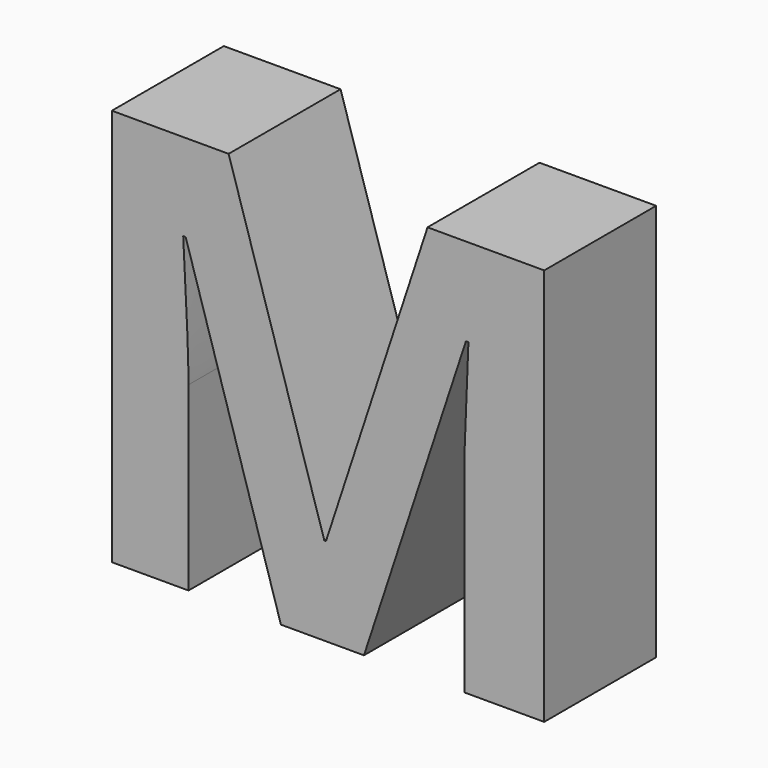
from build123d import *

# Parameters (mm, degrees)
F1_DEPTH = 12.7


with BuildPart() as f1:
    # F0 (on Front) → F1 (new body)
    with BuildSketch(Plane.XZ):
        with BuildLine():
            Line((12.8672812231, -18.3352071258), (20.1222402126, -18.3352071258))
            Line((20.1222402126, -18.3352071258), (20.1222402126, 17.7409976968))
            Line((20.1222402126, 17.7409976968), (9.5330531161, 17.7409976968))
            Line((9.5330531161, 17.7409976968), (0.3177286853, -10.330792679))
            Line((0.3177286853, -10.330792679), (0.165077278, -10.330792679))
            Line((0.165077278, -10.330792679), (-8.5199843694, 17.7409976968))
            Line((-8.5199843694, 17.7409976968), (-19.1172057506, 17.7409976968))
            Line((-19.1172057506, 17.7409976968), (-19.1172057506, -18.3352071258))
            Line((-19.1172057506, -18.3352071258), (-12.1595152911, -18.3352071258))
            Line((-12.1595152911, -18.3352071258), (-12.1595152911, -1.894793854))
            add(Edge.make_bspline(
                [(-12.6415723668, 9.8272273705), (-12.1595152911, 1.0457543079), (-12.1595152911, -1.894793854)],
                knots=[0, 0, 0, 1, 1, 1], degree=2))
            Line((-12.6415723668, 9.8272273705), (-12.4166123981, 9.8272273705))
            Line((-12.4166123981, 9.8272273705), (-3.7730080605, -18.3352071258))
            Line((-3.7730080605, -18.3352071258), (3.763766752, -18.3352071258))
            Line((3.763766752, -18.3352071258), (13.0199326304, 9.7790216629))
            Line((13.0199326304, 9.7790216629), (13.2448925991, 9.7790216629))
            add(Edge.make_bspline(
                [(12.9074526461, 1.2466114228), (12.9476240691, 2.8534683418), (13.2448925991, 9.7790216629)],
                knots=[0, 0, 0, 1, 1, 1], degree=2))
            add(Edge.make_bspline(
                [(12.8672812231, -1.5894910393), (12.8672812231, -0.3602454963), (12.9074526461, 1.2466114228)],
                knots=[0, 0, 0, 1, 1, 1], degree=2))
            Line((12.8672812231, -1.5894910393), (12.8672812231, -18.3352071258))
        make_face()
    extrude(amount=F1_DEPTH)


solid = f1.part
